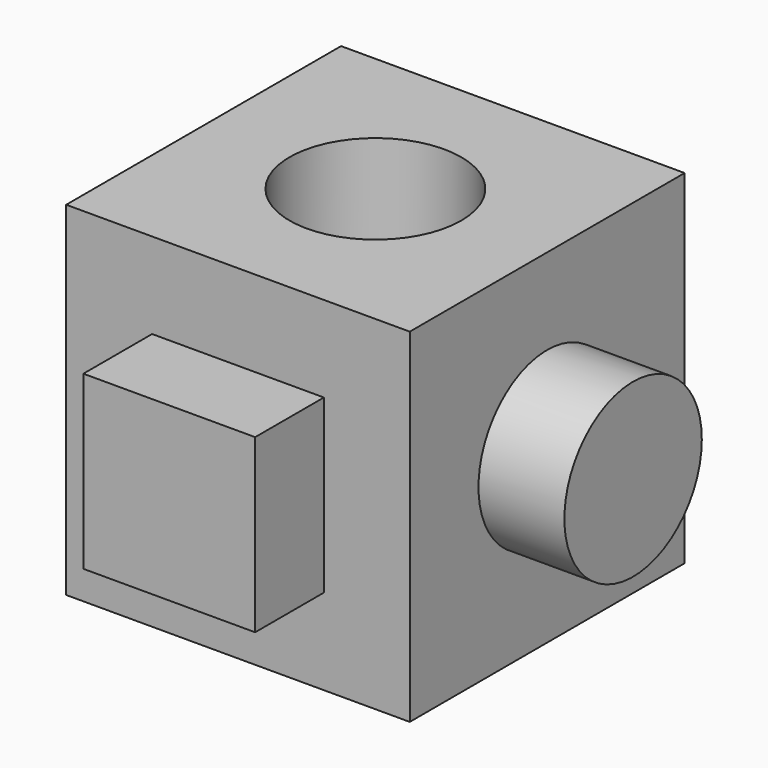
from build123d import *

# Parameters (mm, degrees)
F0_W     = 50.8
F0_H     = 50.8
F1_DEPTH = 50.8
F2_W     = 25.4
F2_H     = 25.4
F3_DEPTH = 12.7
F4_R     = 12.7
F5_DEPTH = 12.7
F6_R     = 12.7
F7_DEPTH = 50.8


with BuildPart() as f1:
    # F0 (on Front) → F1 (new body)
    with BuildSketch(Plane.XZ):
        with Locations((25.4, 25.4)):
            Rectangle(F0_W, F0_H)
    extrude(amount=F1_DEPTH)

    # F2 (on face) → F3 (join)
    with BuildSketch(Plane.XZ.offset(50.8)):
        with Locations((25.4, 25.4)):
            Rectangle(F2_W, F2_H)
    extrude(amount=F3_DEPTH)

    # F4 (on face) → F5 (join)
    with BuildSketch(Plane.YZ.offset(50.8)):
        with Locations((-25.4, 25.4)):
            Circle(F4_R)
    extrude(amount=F5_DEPTH)

    # F6 (on Top) → F7 (cut)
    with BuildSketch(Plane.XY):
        with Locations((25.4, -25.4)):
            Circle(F6_R)
    extrude(amount=F7_DEPTH, mode=Mode.SUBTRACT)


solid = f1.part
